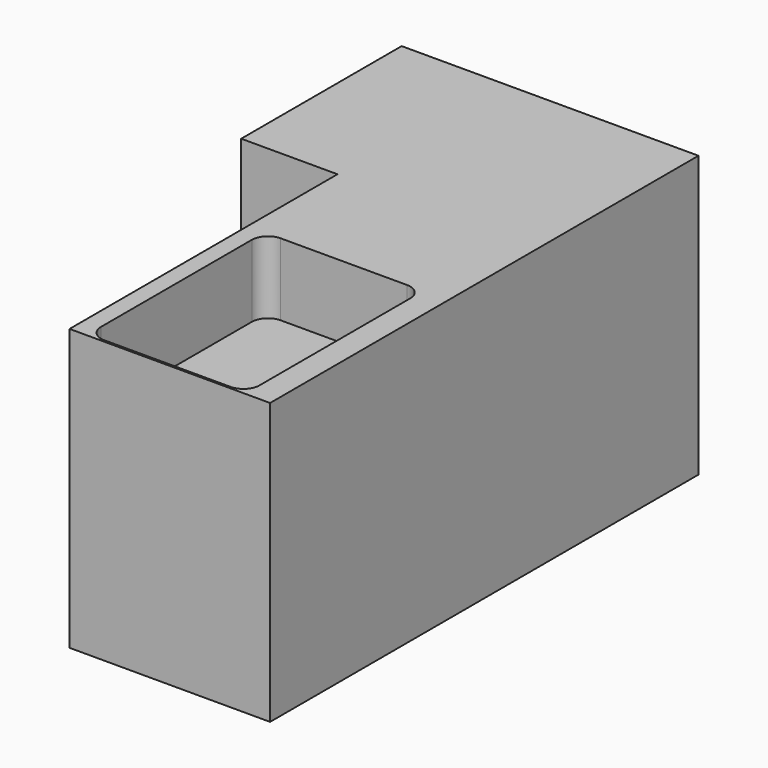
from build123d import *

# Parameters (mm, degrees)
F1_DEPTH = 889
F3_DEPTH = 228.6


with BuildPart() as f1:
    # F0 (on Top) → F1 (new body)
    with BuildSketch(Plane.XY):
        Polygon((-304.8, 0), (0, 0), (0, -1060.45), (635, -1060.45), (635, 635), (-304.8, 635), align=None)
    extrude(amount=-F1_DEPTH)

    # F2 (on face) → F3 (cut)
    with BuildSketch(Plane.XY):
        with BuildLine():
            Line((504.825, -355.6), (104.775, -355.6))
            ThreePointArc((104.775, -355.6), (68.853976, -370.478976), (53.975, -406.4))
            Line((53.975, -406.4), (53.975, -1003.3))
            ThreePointArc((53.975, -1003.3), (68.853976, -1039.221024), (104.775, -1054.1))
            Line((104.775, -1054.1), (504.825, -1054.1))
            ThreePointArc((504.825, -1054.1), (540.746024, -1039.221024), (555.625, -1003.3))
            Line((555.625, -1003.3), (555.625, -406.4))
            ThreePointArc((555.625, -406.4), (540.746024, -370.478976), (504.825, -355.6))
        make_face()
    extrude(amount=-F3_DEPTH, mode=Mode.SUBTRACT)


solid = f1.part
